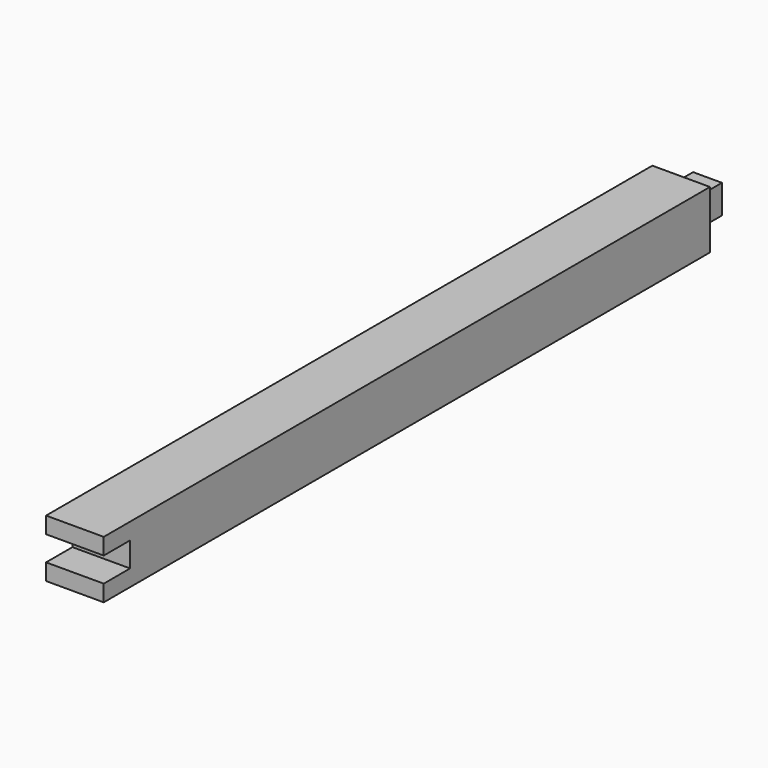
from build123d import *

# Parameters (mm, degrees)
F0_W     = 88.9
F0_H     = 88.9
F1_DEPTH = 1219.2
F2_W     = 50.8
F2_H     = 38.1
F3_DEPTH = 101.6
F4_W     = 88.9
F4_H     = 88.9
F4_W_2   = 44.45
F4_H_2   = 44.45
F5_DEPTH = 50.8


with BuildPart() as f1:
    # F0 (on Front) → F1 (new body)
    with BuildSketch(Plane.XZ):
        with Locations((44.45, 44.45)):
            Rectangle(F0_W, F0_H)
    extrude(amount=F1_DEPTH)

    # F2 (on face) → F3 (cut)
    with BuildSketch(Plane.YZ.offset(88.9)):
        with Locations((-1193.8, 44.45)):
            Rectangle(F2_W, F2_H)
    extrude(amount=-F3_DEPTH, mode=Mode.SUBTRACT)

    # F4 (on face) → F5 (cut)
    with BuildSketch(Plane(origin=(0, 0, 0), x_dir=(-1, 0, 0), z_dir=(0, 1, 0))):
        with Locations((-44.45, 44.45)):
            Rectangle(F4_W, F4_H)
        with Locations((-44.45, 44.45)):
            Rectangle(F4_W_2, F4_H_2, mode=Mode.SUBTRACT)
    extrude(amount=-F5_DEPTH, mode=Mode.SUBTRACT)


solid = f1.part
